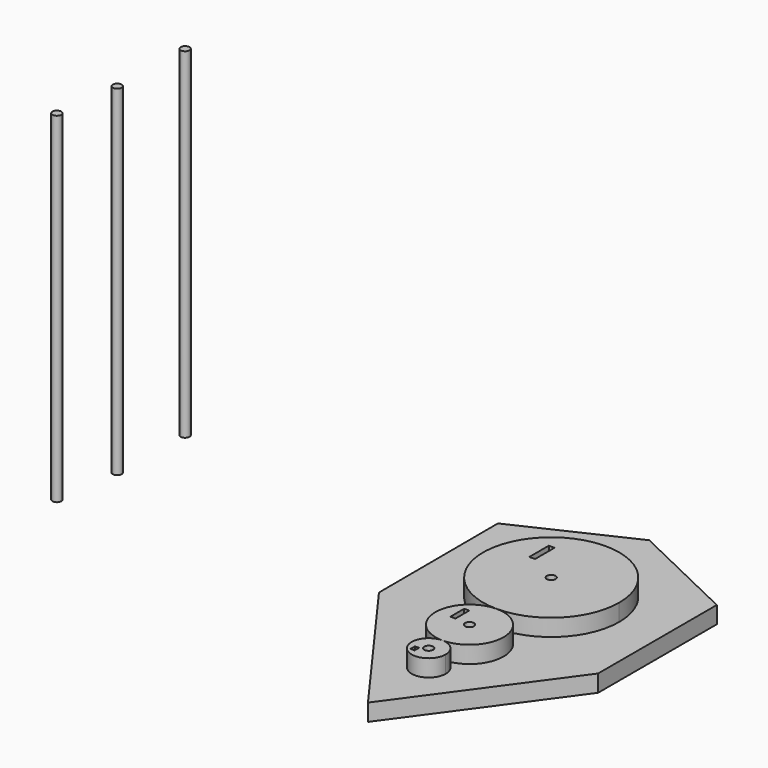
from build123d import *

# Parameters (mm, degrees)
F1_R      = 25.4
F1_R_2    = 1.651
F1_W      = 2.137163
F1_H      = 9.082939
F4_DEPTH  = 12.7
F2_R      = 12.7
F2_R_2    = 1.651
F2_W      = 1.870019
F2_H      = 6.411486
F5_DEPTH  = 12.7
F3_R      = 6.35
F3_W      = 1.527725
F3_H      = 2.10062
F3_R_2    = 1.651
F6_DEPTH  = 12.7
F9_R      = 1.651
F10_DEPTH = 127
F8_R      = 1.651
F11_DEPTH = 127
F7_R      = 1.651
F12_DEPTH = 127
F0_R      = 1.651
F13_DEPTH = 6.35


with BuildPart() as f4:
    # F1 (on Top) → F4 (new body)
    with BuildSketch(Plane.XY):
        with Locations((0, 29.232109)):
            Circle(F1_R)
        with Locations((0, 29.232109)):
            Circle(F1_R_2, mode=Mode.SUBTRACT)
        with Locations((-12.028538, 39.938214)):
            Rectangle(F1_W, F1_H, mode=Mode.SUBTRACT)
    extrude(amount=F4_DEPTH)

    # F2 (on Top) → F5 (join)
    with BuildSketch(Plane.XY):
        with Locations((0, -8.867891)):
            Circle(F2_R)
        with Locations((0, -8.867891)):
            Circle(F2_R_2, mode=Mode.SUBTRACT)
        with Locations((-6.552061, -5.209332)):
            Rectangle(F2_W, F2_H, mode=Mode.SUBTRACT)
    extrude(amount=F5_DEPTH)

    # F3 (on Top) → F6 (join)
    with BuildSketch(Plane.XY):
        with Locations((0, -27.917891)):
            Circle(F3_R)
        with Locations((-3.116746, -30.52604)):
            Rectangle(F3_W, F3_H, mode=Mode.SUBTRACT)
        with Locations((0, -27.917891)):
            Circle(F3_R_2, mode=Mode.SUBTRACT)
    extrude(amount=F6_DEPTH)


with BuildPart() as f10:
    # F9 (on Top) → F10 (new body)
    with BuildSketch(Plane.XY):
        with Locations((-158.44661, -3.345834)):
            Circle(F9_R)
    extrude(amount=F10_DEPTH)


with BuildPart() as f11:
    # F8 (on Top) → F11 (new body)
    with BuildSketch(Plane.XY):
        with Locations((-155.365214, 20.962963)):
            Circle(F8_R)
    extrude(amount=F11_DEPTH)


with BuildPart() as f12:
    # F7 (on Top) → F12 (new body)
    with BuildSketch(Plane.XY):
        with Locations((-154.680461, 51.776934)):
            Circle(F7_R)
    extrude(amount=F12_DEPTH)


with BuildPart() as f13:
    # F0 (on Top) → F13 (new body)
    with BuildSketch(Plane.XY):
        Polygon((-41.08617, 55.720844), (-40.904372, 0), (0, -56.26624), (40.904372, 0), (40.904372, 55.357252), (0, 74.991348), align=None)
        with Locations((0, -24.057578)):
            Circle(F0_R, mode=Mode.SUBTRACT)
        with Locations((0, -5.007578)):
            Circle(F0_R, mode=Mode.SUBTRACT)
        with Locations((0, 33.092422)):
            Circle(F0_R, mode=Mode.SUBTRACT)
    extrude(amount=F13_DEPTH)


solid = Compound([f4.part, f10.part, f11.part, f12.part, f13.part])
